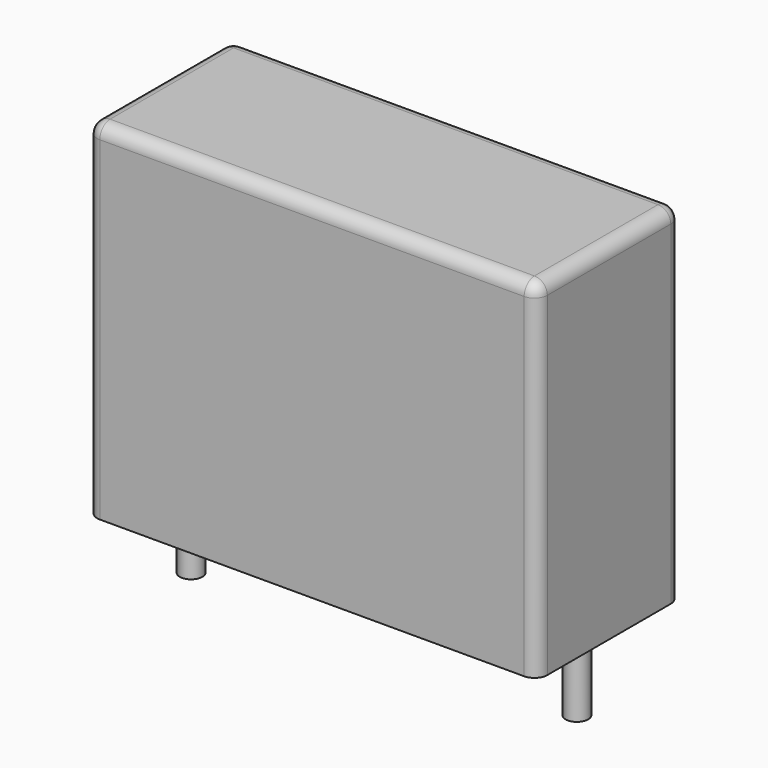
from build123d import *

# Parameters (mm, degrees)
CYLINDER001_R     = 0.44
CYLINDER001_DEPTH = 3
CYLINDER_R        = 0.44
CYLINDER_DEPTH    = 3
BOX_W             = 17.5
BOX_H             = 7
BOX_DEPTH         = 13.5
FILLET_R          = 0.5


with BuildPart() as pin2:
    # Cylinder001 → Cylinder001 (new body)
    with BuildSketch(Plane(origin=(7.5, 0, -3), x_dir=(1, 0, 0), z_dir=(0, 0, 1))):
        Circle(CYLINDER001_R)
    extrude(amount=CYLINDER001_DEPTH)


with BuildPart() as pin1:
    # Cylinder → Cylinder (new body)
    with BuildSketch(Plane(origin=(-7.5, 0, -3), x_dir=(1, 0, 0), z_dir=(0, 0, 1))):
        Circle(CYLINDER_R)
    extrude(amount=CYLINDER_DEPTH)


with BuildPart() as obj1:
    # Box → Box (new body)
    with BuildSketch(Plane(origin=(-8.75, -3.5, 0), x_dir=(1, 0, 0), z_dir=(0, 0, 1))):
        with Locations((8.75, 3.5)):
            Rectangle(BOX_W, BOX_H)
    extrude(amount=BOX_DEPTH)

    # Fillet
    fillet_edges = [obj1.edges().sort_by_distance(p)[0] for p in [
        (-8.75, -3.5, 6.75),
        (-8.75, 0, 13.5),
        (-8.75, 3.5, 6.75),
        (8.75, -3.5, 6.75),
        (8.75, 0, 13.5),
        (8.75, 3.5, 6.75),
        (0, -3.5, 13.5),
        (0, 3.5, 13.5),
    ]]
    fillet(fillet_edges, radius=FILLET_R)

    # Fusion: union Pin1
    add(pin1.part)

    # Fusion001: union Pin2
    add(pin2.part)


solid = obj1.part
